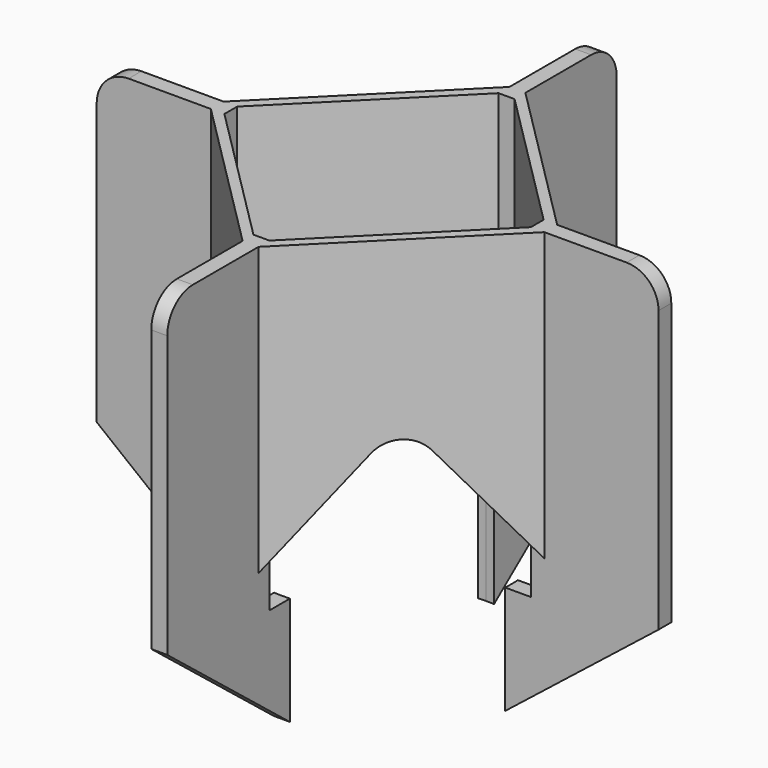
from build123d import *

# Parameters (mm, degrees)
F1_DEPTH  = 1.25
F3_COUNT  = 4
F6_DEPTH  = 45
F8_DEPTH  = 5
F9_COUNT  = 4
F11_DEPTH = 17


with BuildPart() as f1:
    # F0 (on Front) → F1 (new body, symmetric)
    with BuildSketch(Plane.XZ):
        with BuildLine():
            Line((0, 17), (0, 0))
            Line((0, 0), (24, 19))
            Line((24, 19), (24, 63))
            ThreePointArc((24, 63), (22.5355339059, 66.5355339059), (19, 68))
            Line((19, 68), (4, 68))
            Line((4, 68), (4, 17))
            Line((4, 17), (0, 17))
        make_face()
    extrude(amount=F1_DEPTH, both=True)


with BuildPart() as f3_1:
    # F3: instance of F1
    add(f1.part.rotate(Axis((-20, 0, 4.0539303016), (0, 0, 1)), 1 * 360 / F3_COUNT))


with BuildPart() as f3_2:
    # F3: instance of F1
    add(f1.part.rotate(Axis((-20, 0, 4.0539303016), (0, 0, 1)), 2 * 360 / F3_COUNT))


with BuildPart() as f3_3:
    # F3: instance of F1
    add(f1.part.rotate(Axis((-20, 0, 4.0539303016), (0, 0, 1)), 3 * 360 / F3_COUNT))


with BuildPart() as f6:
    # F5 (on face) → F6 (new body)
    with BuildSketch(Plane.XY.offset(68)):
        Polygon((-18.75, 26.1213203436), (-18.75, 24), (4, 1.25), (6.1213203436, 1.25), align=None)
    extrude(amount=-F6_DEPTH)

    # F7 (on face) → F8 (cut)
    with BuildSketch(Plane(origin=(3.6856601718, 3.6856601718, 0), x_dir=(-0.7071067812, 0.7071067812, 0), z_dir=(0.7071067812, 0.7071067812, 0))):
        with BuildLine():
            Line((31.7288148957, 23), (17.8969432153, 38.7299413567))
            ThreePointArc((17.8969432153, 38.7299413567), (14.1421356237, 40.4282115146), (10.3873280321, 38.7299413567))
            Line((10.3873280321, 38.7299413567), (-3.4445436483, 23))
            Line((-3.4445436483, 23), (31.7288148957, 23))
        make_face()
    extrude(amount=-F8_DEPTH, mode=Mode.SUBTRACT)


with BuildPart() as f1_1:
    add(f1.part)

    add(f3_1.part)  # F9 merges F3_1

    add(f3_2.part)  # F9 merges F3_2

    add(f3_3.part)  # F9 merges F3_3
    # F9: F6 ×4 about axis
    f9_axis = Axis((-20, 0, 68), (0, 0, 1))
    for i in range(1, F9_COUNT):
        add(f6.part.rotate(f9_axis, i * 360 / F9_COUNT))

    add(f6.part)  # F11 merges F6
    # F10 (on face) → F11 (join)
    with BuildSketch(Plane.XY.offset(17)):
        with BuildLine():
            Line((-18.75, 19.9608992783), (-18.75, 20))
            Line((-18.75, 20), (-19.9999998635, 20))
            ThreePointArc((-19.9999998635, 20), (-19.3746942332, 19.9902224274), (-18.75, 19.9608992783))
        make_face()
        with BuildLine():
            ThreePointArc((-21.25, 19.9608992783), (-20.6253056303, 19.9902224317), (-19.9999998635, 20))
            Line((-19.9999998635, 20), (-21.25, 20))
            Line((-21.25, 20), (-21.25, 19.9608992783))
        make_face()
        with BuildLine():
            Line((-0.0391007217, -1.25), (0, -1.25))
            Line((0, -1.25), (0, 9.88e-08))
            ThreePointArc((0, 9.88e-08), (-0.0097775689, -0.6253056492), (-0.0391007217, -1.25))
        make_face()
        with BuildLine():
            ThreePointArc((-0.0391007217, 1.25), (-0.009777572, 0.6253057479), (0, 9.88e-08))
            Line((0, 9.88e-08), (0, 1.25))
            Line((0, 1.25), (-0.0391007217, 1.25))
        make_face()
        with BuildLine():
            Line((-21.25, -19.9608992783), (-21.25, -20))
            Line((-21.25, -20), (-20.0000001365, -20))
            ThreePointArc((-20.0000001365, -20), (-20.6253057668, -19.9902224274), (-21.25, -19.9608992783))
        make_face()
        with BuildLine():
            ThreePointArc((-18.75, -19.9608992783), (-19.3746943697, -19.9902224317), (-20.0000001365, -20))
            Line((-20.0000001365, -20), (-18.75, -20))
            Line((-18.75, -20), (-18.75, -19.9608992783))
        make_face()
        with BuildLine():
            Line((-39.9608992783, 1.25), (-40, 1.25))
            Line((-40, 1.25), (-40, 0))
            ThreePointArc((-40, 0), (-39.9902224296, 0.6253056985), (-39.9608992783, 1.25))
        make_face()
        with BuildLine():
            ThreePointArc((-39.9608992783, -1.25), (-39.9902224296, -0.6253056985), (-40, 0))
            Line((-40, 0), (-40, -1.25))
            Line((-40, -1.25), (-39.9608992783, -1.25))
        make_face()
    extrude(amount=-F11_DEPTH)


solid = f1_1.part
